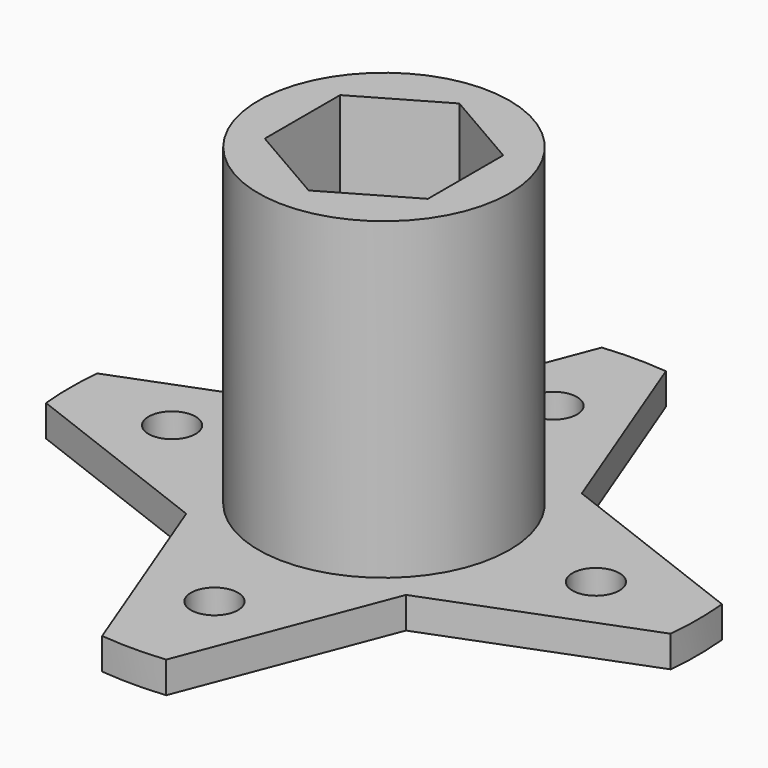
from build123d import *

# Parameters (mm, degrees)
EXTRUDE_DEPTH     = 30
CYLINDER_R        = 8
CYLINDER_DEPTH    = 20
EXTRUDE002_DEPTH  = 2
SKETCH001_R       = 1.5
EXTRUDE001_DEPTH  = 2
CYLINDER001_R     = 20
CYLINDER001_DEPTH = 2


with BuildPart() as extrude_body:
    # Sketch → Extrude (new body)
    with BuildSketch(Plane.XY.offset(20)):
        Polygon((0, 6), (-5.196152, 3), (-5.196152, -3), (0, -6), (5.196152, -3), (5.196152, 3), align=None)
    extrude(amount=-EXTRUDE_DEPTH)


with BuildPart() as cut:
    # Cylinder → Cylinder (new body)
    with BuildSketch(Plane.XY):
        Circle(CYLINDER_R)
    extrude(amount=CYLINDER_DEPTH)

    # Cut: cut Extrude body
    add(extrude_body.part, mode=Mode.SUBTRACT)


with BuildPart() as extrude002:
    # Sketch003 → Extrude002 (new body)
    with BuildSketch(Plane.XY):
        Polygon((-7, 7), (-2, 20), (-20, 20), (-20, 2), align=None)
        Polygon((-7, -7), (-2, -20), (-20, -20), (-20, -2), align=None)
        Polygon((7, -7), (2, -20), (20, -20), (20, -2), align=None)
        Polygon((7, 7), (2, 20), (20, 20), (20, 2), align=None)
    extrude(amount=-EXTRUDE002_DEPTH)


with BuildPart() as extrude001:
    # Sketch001 → Extrude001 (new body)
    with BuildSketch(Plane(origin=(0, 0, -2), x_dir=(1, 0, 0), z_dir=(0, 0, -1))):
        with Locations((0, 13.5)):
            Circle(SKETCH001_R)
        with Locations((13.5, 0)):
            Circle(SKETCH001_R)
        with Locations((0, -13.5)):
            Circle(SKETCH001_R)
        with Locations((-13.5, 0)):
            Circle(SKETCH001_R)
    extrude(amount=-EXTRUDE001_DEPTH)


with BuildPart() as cut002:
    # Cylinder001 → Cylinder001 (new body)
    with BuildSketch(Plane.XY.offset(-2)):
        Circle(CYLINDER001_R)
    extrude(amount=CYLINDER001_DEPTH)

    # Cut001: cut Extrude001
    add(extrude001.part, mode=Mode.SUBTRACT)

    # Cut002: cut Extrude002
    add(extrude002.part, mode=Mode.SUBTRACT)


solid = Compound([cut.part, cut002.part])
